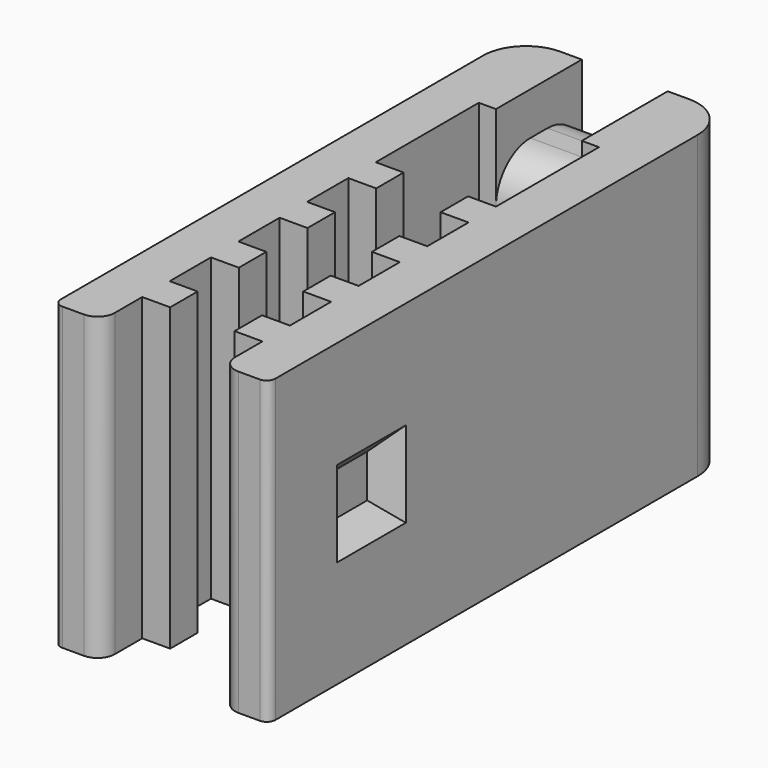
from build123d import *

# Parameters (mm, degrees)
BOX013_W     = 1
BOX013_H     = 2
BOX013_DEPTH = 2
BOX012_W     = 1
BOX012_H     = 2
BOX012_DEPTH = 2
CHAMFER_SIZE = 0.5
BOX007_W     = 2
BOX007_H     = 2.5
BOX007_DEPTH = 1
BOX008_W     = 2
BOX008_H     = 2.5
BOX008_DEPTH = 1
BOX_W        = 1.5
BOX_H        = 10
BOX_DEPTH    = 7
BOX001_W     = 2.8
BOX001_H     = 1.2
BOX001_DEPTH = 7
BOX002_W     = 2.8
BOX002_H     = 1.2
BOX002_DEPTH = 7
BOX003_W     = 2.8
BOX003_H     = 1.2
BOX003_DEPTH = 7
BOX004_W     = 2.8
BOX004_H     = 1.2
BOX004_DEPTH = 7
BOX005_W     = 2.8
BOX005_H     = 3
BOX005_DEPTH = 7
BOX006_W     = 5
BOX006_H     = 13.5
BOX006_DEPTH = 7
FILLET_R     = 1
FILLET007_R  = 1
FILLET008_R  = 0.4
FILLET009_R  = 0.2


with BuildPart() as cube013:
    # Box013 → Box013 (new body)
    with BuildSketch(Plane(origin=(-3, 2, 2.5), x_dir=(1, 0, 0), z_dir=(0, 0, 1))):
        with Locations((0.5, 1)):
            Rectangle(BOX013_W, BOX013_H)
    extrude(amount=BOX013_DEPTH)


with BuildPart() as chamfer_body:
    # Box012 → Box012 (new body)
    with BuildSketch(Plane(origin=(2, 2, 2.5), x_dir=(1, 0, 0), z_dir=(0, 0, 1))):
        with Locations((0.5, 1)):
            Rectangle(BOX012_W, BOX012_H)
    extrude(amount=BOX012_DEPTH)

    # Fusion005: union Cube013
    add(cube013.part)

    # Chamfer
    chamfer_edges = [chamfer_body.edges().sort_by_distance(p)[0] for p in [
        (2, 2, 3.5),
        (2, 3, 4.5),
        (2, 4, 3.5),
        (2, 3, 2.5),
        (-2, 2, 3.5),
        (-2, 3, 4.5),
        (-2, 4, 3.5),
        (-2, 3, 2.5),
    ]]
    chamfer(chamfer_edges, length=CHAMFER_SIZE)


with BuildPart() as cube007:
    # Box007 → Box007 (new body)
    with BuildSketch(Plane(origin=(-1, 11, 0), x_dir=(1, 0, 0), z_dir=(0, 0, 1))):
        with Locations((1, 1.25)):
            Rectangle(BOX007_W, BOX007_H)
    extrude(amount=BOX007_DEPTH)


with BuildPart() as fusion001:
    # Box008 → Box008 (new body)
    with BuildSketch(Plane(origin=(-1, 11, 6), x_dir=(1, 0, 0), z_dir=(0, 0, 1))):
        with Locations((1, 1.25)):
            Rectangle(BOX008_W, BOX008_H)
    extrude(amount=BOX008_DEPTH)

    # Fusion001: union Cube007
    add(cube007.part)


with BuildPart() as cube:
    # Box → Box (new body)
    with BuildSketch(Plane(origin=(-0.75, 0, 0), x_dir=(1, 0, 0), z_dir=(0, 0, 1))):
        with Locations((0.75, 5)):
            Rectangle(BOX_W, BOX_H)
    extrude(amount=BOX_DEPTH)


with BuildPart() as cube001:
    # Box001 → Box001 (new body)
    with BuildSketch(Plane(origin=(-1.4, 0, 0), x_dir=(1, 0, 0), z_dir=(0, 0, 1))):
        with Locations((1.4, 0.6)):
            Rectangle(BOX001_W, BOX001_H)
    extrude(amount=BOX001_DEPTH)


with BuildPart() as cube002:
    # Box002 → Box002 (new body)
    with BuildSketch(Plane(origin=(-1.4, 2, 0), x_dir=(1, 0, 0), z_dir=(0, 0, 1))):
        with Locations((1.4, 0.6)):
            Rectangle(BOX002_W, BOX002_H)
    extrude(amount=BOX002_DEPTH)


with BuildPart() as cube003:
    # Box003 → Box003 (new body)
    with BuildSketch(Plane(origin=(-1.4, 4, 0), x_dir=(1, 0, 0), z_dir=(0, 0, 1))):
        with Locations((1.4, 0.6)):
            Rectangle(BOX003_W, BOX003_H)
    extrude(amount=BOX003_DEPTH)


with BuildPart() as cube004:
    # Box004 → Box004 (new body)
    with BuildSketch(Plane(origin=(-1.4, 6, 0), x_dir=(1, 0, 0), z_dir=(0, 0, 1))):
        with Locations((1.4, 0.6)):
            Rectangle(BOX004_W, BOX004_H)
    extrude(amount=BOX004_DEPTH)


with BuildPart() as fusion:
    # Box005 → Box005 (new body)
    with BuildSketch(Plane(origin=(-1.4, 8, 0), x_dir=(1, 0, 0), z_dir=(0, 0, 1))):
        with Locations((1.4, 1.5)):
            Rectangle(BOX005_W, BOX005_H)
    extrude(amount=BOX005_DEPTH)

    # Fusion: union Cube, Cube001, Cube002, Cube003, Cube004
    add(cube.part)
    add(cube001.part)
    add(cube002.part)
    add(cube003.part)
    add(cube004.part)


with BuildPart() as fillet009:
    # Box006 → Box006 (new body)
    with BuildSketch(Plane(origin=(-2.5, 0, 0), x_dir=(1, 0, 0), z_dir=(0, 0, 1))):
        with Locations((2.5, 6.75)):
            Rectangle(BOX006_W, BOX006_H)
    extrude(amount=BOX006_DEPTH)

    # Cut: cut Fusion
    add(fusion.part, mode=Mode.SUBTRACT)

    # Cut004: cut Fusion001
    add(fusion001.part, mode=Mode.SUBTRACT)

    # Cut005: cut Chamfer body
    add(chamfer_body.part, mode=Mode.SUBTRACT)

    # Fillet
    fillet_edges = [fillet009.edges().sort_by_distance(p)[0] for p in [
        (0, 13.5, 1),
        (0, 13.5, 6),
        (0, 11, 1),
        (0, 11, 6),
    ]]
    fillet(fillet_edges, radius=FILLET_R)

    # Fillet007
    fillet007_edges = [fillet009.edges().sort_by_distance(p)[0] for p in [
        (-2.5, 13.5, 3.5),
        (2.5, 13.5, 3.5),
    ]]
    fillet(fillet007_edges, radius=FILLET007_R)

    # Fillet008
    fillet008_edges = [fillet009.edges().sort_by_distance(p)[0] for p in [
        (-1.4, 0, 3.5),
        (1.4, 0, 3.5),
    ]]
    fillet(fillet008_edges, radius=FILLET008_R)

    # Fillet009
    fillet009_edges = [fillet009.edges().sort_by_distance(p)[0] for p in [
        (-2.5, 0, 3.5),
        (2.5, 0, 3.5),
    ]]
    fillet(fillet009_edges, radius=FILLET009_R)


solid = fillet009.part
